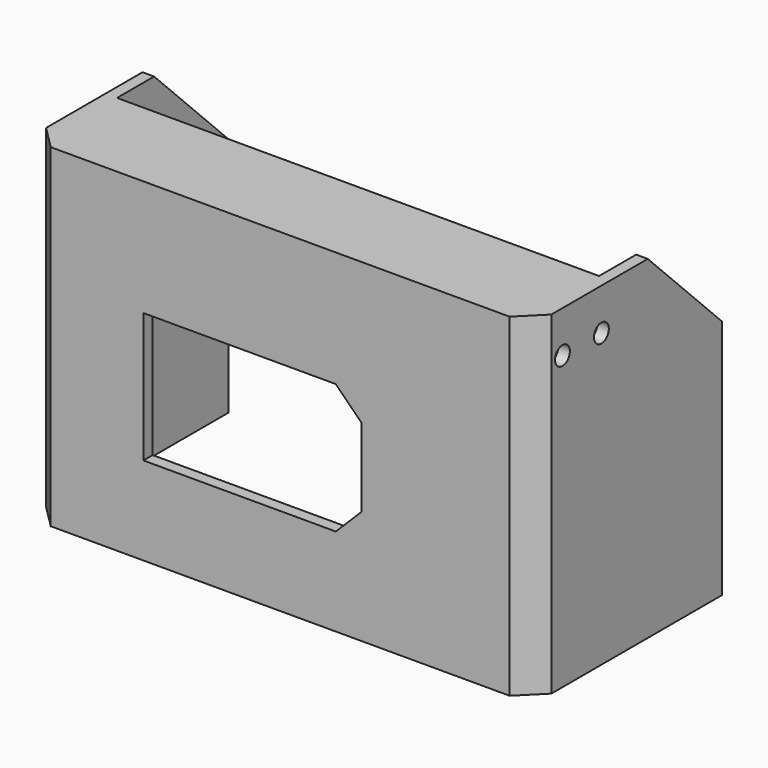
from build123d import *

# Parameters (mm, degrees)
F0_W      = 109
F0_H      = 72
F1_DEPTH  = 51
F2_T      = -2.5
F3_W      = 104
F3_H      = 30
F4_DEPTH  = 2.5
F5_R      = 2
F6_DEPTH  = 2.5
F7_SIZE   = 20
F8_W      = 104
F8_H      = 48.5
F9_DEPTH  = 2.5
F11_DEPTH = 2.5
F14_DEPTH = 3
F15_DEPTH = 2.5
F16_SIZE  = 5
F17_SIZE  = 5


with BuildPart() as f1:
    # F0 (on Front) → F1 (new body)
    with BuildSketch(Plane.XZ):
        with Locations((54.5, 36)):
            Rectangle(F0_W, F0_H)
    extrude(amount=F1_DEPTH)

    # F2
    f2_openings = [f1.faces().sort_by_distance(p)[0] for p in [
        (54.5, 0, 36),
    ]]
    offset(amount=F2_T, openings=f2_openings)

    # F3 (on face) → F4 (cut, through all)
    with BuildSketch(Plane.XY.offset(72)):
        with Locations((54.5, -15)):
            Rectangle(F3_W, F3_H)
    extrude(amount=-F4_DEPTH, mode=Mode.SUBTRACT)

    # F5 (on face) → F6 (cut, through all)
    with BuildSketch(Plane.YZ.offset(109)):
        with Locations((-43, 63)):
            Circle(F5_R)
        with Locations((-32.5, 63)):
            Circle(F5_R)
    extrude(amount=-F6_DEPTH, mode=Mode.SUBTRACT)

    # F7
    f7_edges = [f1.edges().sort_by_distance(p)[0] for p in [
        (107.75, 0, 72),
        (1.25, 0, 72),
    ]]
    chamfer(f7_edges, length=F7_SIZE)

    # F8 (on face) → F9 (cut, through all)
    with BuildSketch(Plane(origin=(0, 0, 0), x_dir=(1, 0, 0), z_dir=(0, 0, -1))):
        with Locations((54.5, 24.25)):
            Rectangle(F8_W, F8_H)
    extrude(amount=-F9_DEPTH, mode=Mode.SUBTRACT)

    # F10 (on face) → F11 (cut, through all)
    with BuildSketch(Plane(origin=(0, 0, 0), x_dir=(0, -1, 0), z_dir=(-1, 0, 0))):
        with BuildLine():
            Line((22.5, 0), (37.5, 0))
            ThreePointArc((37.5, 0), (30, 7.5), (22.5, 0))
        make_face()
    extrude(amount=-F11_DEPTH, mode=Mode.SUBTRACT)

    # F13 (on face) → F14 (join)
    with BuildSketch(Plane(origin=(106.5, 0, 0), x_dir=(0, -1, 0), z_dir=(-1, 0, 0))):
        Polygon((48.5, 56.5), (48.5, 69.5), (30, 69.5), (27, 69.5), (27, 56.5), align=None)
        Polygon((29.0358983849, 63), (30.7679491924, 66), (34.2320508076, 66), (35.9641016151, 63), (34.2320508076, 60), (30.7679491924, 60), align=None, mode=Mode.SUBTRACT)
        Polygon((39.5358983849, 63), (41.2679491924, 66), (44.7320508076, 66), (46.4641016151, 63), (44.7320508076, 60), (41.2679491924, 60), align=None, mode=Mode.SUBTRACT)
    extrude(amount=F14_DEPTH)

    # F12 (on face) → F15 (cut, through all)
    with BuildSketch(Plane.XZ.offset(51)):
        Polygon((66.5, 47), (25, 47), (25, 19), (66.5, 19), (72, 24.5), (72, 41.5), align=None)
    extrude(amount=-F15_DEPTH, mode=Mode.SUBTRACT)

    # F16 (call 1 of 2: OpenCascade refuses the feature's edges together)
    f16_edges = [f1.edges().sort_by_distance(p)[0] for p in [
        (2.5, -48.5, 34.75),
        (2.5, -39.25, 69.5),
        (53, -48.5, 69.5),
    ]]
    chamfer(f16_edges, length=F16_SIZE)

    # F16#2 (call 2 of 2)
    f16_2_edges = [f1.edges().sort_by_distance(p)[0] for p in [
        (106.5, -48.5, 28.25),
    ]]
    chamfer(f16_2_edges, length=F16_SIZE)

    # F17
    f17_edges = [f1.edges().sort_by_distance(p)[0] for p in [
        (0, -51, 36),
        (109, -51, 36),
    ]]
    chamfer(f17_edges, length=F17_SIZE)


solid = f1.part
